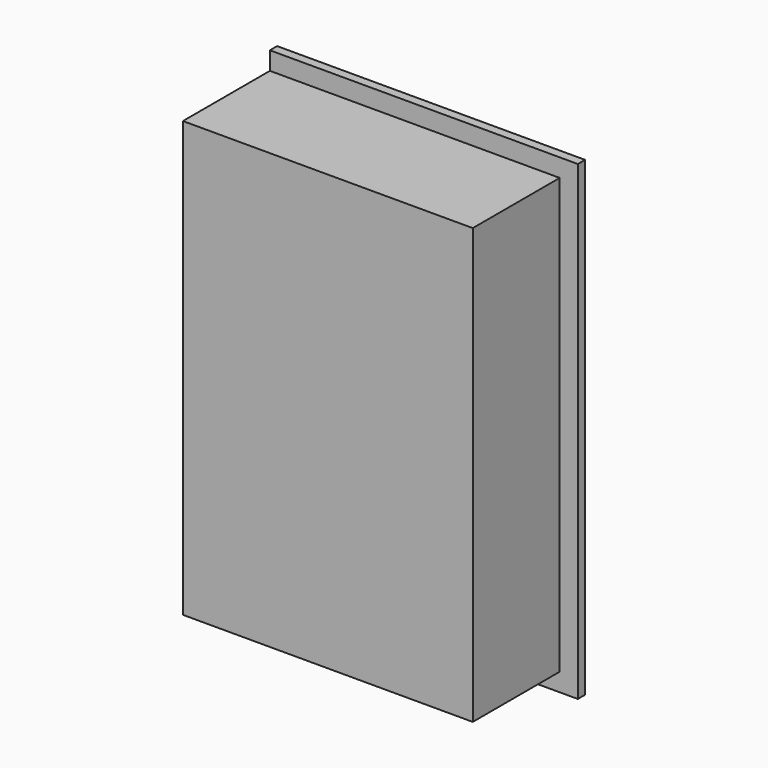
from build123d import *

# Parameters (mm, degrees)
F0_W     = 101.6
F0_H     = 152.4
F1_DEPTH = 38.1
F2_W     = 101.6
F2_H     = 152.4
F3_DEPTH = 3.175


with BuildPart() as f1:
    # F0 (on Front) → F1 (new body)
    with BuildSketch(Plane.XZ):
        with Locations((50.8, -76.2)):
            Rectangle(F0_W, F0_H)
    extrude(amount=F1_DEPTH)

    # F2 (on face) → F3 (join)
    with BuildSketch(Plane(origin=(0, 0, 0), x_dir=(-1, 0, 0), z_dir=(0, 1, 0))):
        with Locations((-50.8, -76.2)):
            Rectangle(F2_W, F2_H)
        Polygon((-107.95, -158.75), (0, -158.75), (0, -152.4), (-101.6, -152.4), (-101.6, 0), (0, 0), (0, 6.35), (-107.95, 6.35), align=None)
    extrude(amount=F3_DEPTH)


solid = f1.part
